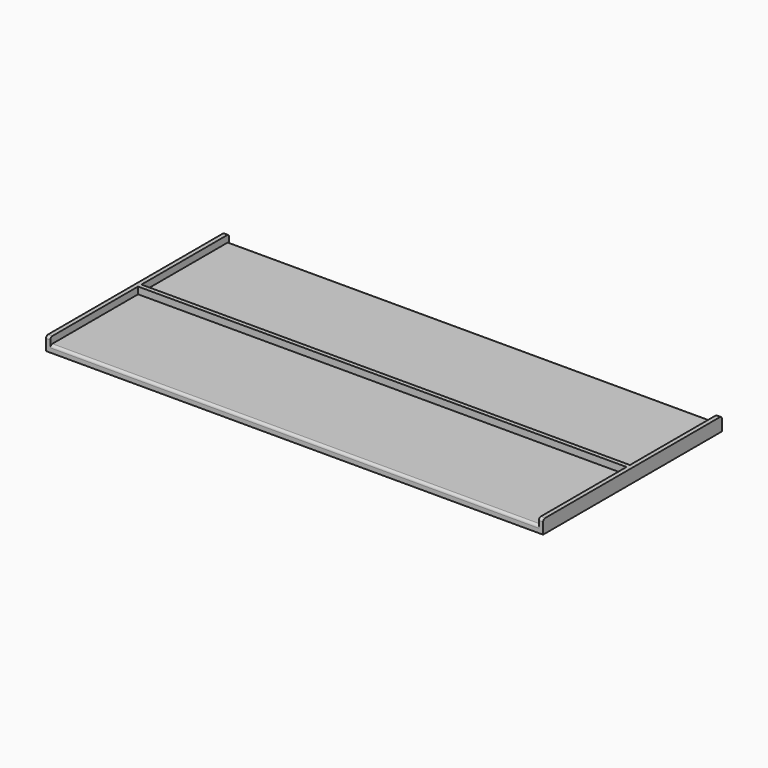
from build123d import *

# Parameters (mm, degrees)
F0_W      = 114.5
F0_H      = 52.4
F1_DEPTH  = 1.6
F2_R      = 0.6
F3_W      = 52.4
F3_H      = 3.2
F4_DEPTH  = 1
F5_R      = 0.6
F6_W      = 52.4
F6_H      = 3.2
F7_DEPTH  = 1
F8_R      = 0.6
F10_DEPTH = 1.6


with BuildPart() as f1:
    # F0 (on Top) → F1 (new body)
    with BuildSketch(Plane.XY):
        with Locations((57.25, 26.2)):
            Rectangle(F0_W, F0_H)
    extrude(amount=F1_DEPTH)

    # F2
    f2_edges = [f1.edges().sort_by_distance(p)[0] for p in [
        (57.25, 0, 1.6),
        (57.25, 52.4, 1.6),
    ]]
    fillet(f2_edges, radius=F2_R)

    # F3 (on face) → F4 (join)
    with BuildSketch(Plane.YZ.offset(114.5)):
        with Locations((26.2, 1.6)):
            Rectangle(F3_W, F3_H)
    extrude(amount=F4_DEPTH)

    # F5
    f5_edges = [f1.edges().sort_by_distance(p)[0] for p in [
        (115, 52.4, 3.2),
        (115, 0, 3.2),
    ]]
    fillet(f5_edges, radius=F5_R)

    # F6 (on face) → F7 (join)
    with BuildSketch(Plane(origin=(0, 0, 0), x_dir=(0, -1, 0), z_dir=(-1, 0, 0))):
        with Locations((-26.2, 1.6)):
            Rectangle(F6_W, F6_H)
    extrude(amount=F7_DEPTH)

    # F8
    f8_edges = [f1.edges().sort_by_distance(p)[0] for p in [
        (-0.5, 0, 3.2),
        (-0.5, 52.4, 3.2),
    ]]
    fillet(f8_edges, radius=F8_R)

    # F9 (on face) → F10 (join, through all)
    with BuildSketch(Plane.XY.offset(1.6)):
        Polygon((0, 26.7), (0, 25.7), (114.5, 25.7), (114.5, 26.2), (114.5, 26.7), align=None)
    extrude(amount=F10_DEPTH)


solid = f1.part
